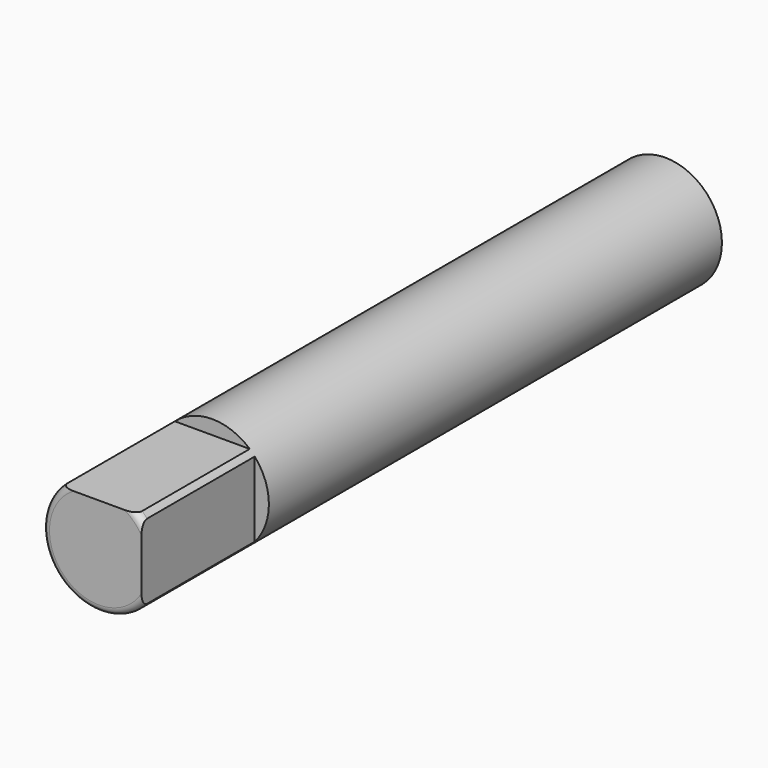
from build123d import *

# Parameters (mm, degrees)
F0_R     = 4
F1_DEPTH = 50
F2_W     = 1
F2_H     = 1
F3_DEPTH = 10
F4_R     = 0.5


with BuildPart() as f1:
    # F0 (on Front) → F1 (new body)
    with BuildSketch(Plane.XZ):
        Circle(F0_R)
    extrude(amount=F1_DEPTH)

    # F2 (on face) → F3 (cut)
    with BuildSketch(Plane.XZ.offset(50)):
        with BuildLine():
            Line((2.6457513111, 3), (3, 3))
            Line((3, 3), (3, 4))
            Line((3, 4), (0, 4))
            ThreePointArc((0, 4), (1.4142135624, 3.7416573868), (2.6457513111, 3))
        make_face()
        with Locations((3.5, 3.5)):
            Rectangle(F2_W, F2_H)
        with BuildLine():
            Line((2.6457513111, 3), (3, 3))
            Line((3, 3), (3, 4))
            Line((3, 4), (0, 4))
            ThreePointArc((0, 4), (1.4142135624, 3.7416573868), (2.6457513111, 3))
        make_face()
        with BuildLine():
            Line((-4, 3), (-2.6457513111, 3))
            ThreePointArc((-2.6457513111, 3), (-1.4142135624, 3.7416573868), (0, 4))
            Line((0, 4), (-4, 4))
            Line((-4, 4), (-4, 3))
        make_face()
        with Locations((3.5, 3.5)):
            Rectangle(F2_W, F2_H)
        with BuildLine():
            Line((4, 0), (4, 3))
            Line((4, 3), (3, 3))
            Line((3, 3), (3, 2.6457513111))
            ThreePointArc((3, 2.6457513111), (3.7416573868, 1.4142135624), (4, 0))
        make_face()
        with BuildLine():
            Line((4, 0), (4, 3))
            Line((4, 3), (3, 3))
            Line((3, 3), (3, 2.6457513111))
            ThreePointArc((3, 2.6457513111), (3.7416573868, 1.4142135624), (4, 0))
        make_face()
        with BuildLine():
            Line((4, -4), (4, 0))
            ThreePointArc((4, 0), (3.7416573868, -1.4142135624), (3, -2.6457513111))
            Line((3, -2.6457513111), (3, -4))
            Line((3, -4), (4, -4))
        make_face()
        with BuildLine():
            Line((-2.6457513111, 3), (2.6457513111, 3))
            ThreePointArc((2.6457513111, 3), (1.4142135624, 3.7416573868), (0, 4))
            ThreePointArc((0, 4), (-1.4142135624, 3.7416573868), (-2.6457513111, 3))
        make_face()
        with BuildLine():
            ThreePointArc((3, -2.6457513111), (3.7416573868, -1.4142135624), (4, 0))
            ThreePointArc((4, 0), (3.7416573868, 1.4142135624), (3, 2.6457513111))
            Line((3, 2.6457513111), (3, -2.6457513111))
        make_face()
    extrude(amount=-F3_DEPTH, mode=Mode.SUBTRACT)

    # F4
    f4_edges = [f1.edges().sort_by_distance(p)[0] for p in [
        (2.828427, -50, 2.828427),
        (-2.828427, -50, -2.828427),
    ]]
    fillet(f4_edges, radius=F4_R)


solid = f1.part
